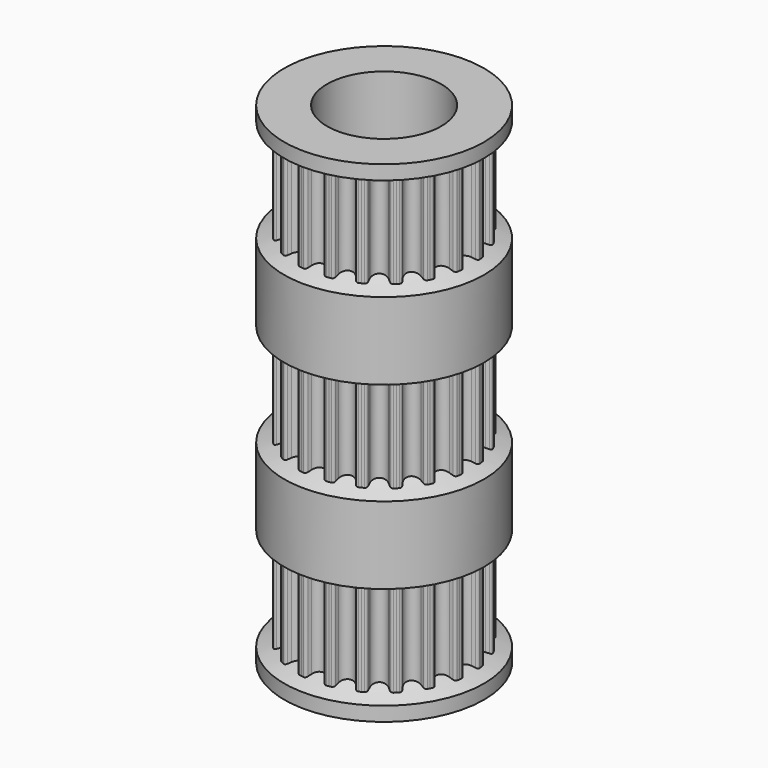
from build123d import *

# Parameters (mm, degrees)
F3_DEPTH = 17
F4_COUNT = 20
F7_R     = 4
F8_DEPTH = 50


with BuildPart() as f3:
    # F2 (on Top) → F3 (new body, symmetric)
    with BuildSketch(Plane.XY):
        with BuildLine():
            Line((0.8388325323, 5.2961801716), (0.9561583811, 6.0369464271))
            ThreePointArc((0.9561583811, 6.0369464271), (0.8769247137, 6.0489638832), (0.7975402939, 6.0599414595))
            ThreePointArc((0.7975402939, 6.0599414595), (0.673583382, 6.0329713178), (0.5951684067, 5.9332527328))
            ThreePointArc((0.5951684067, 5.9332527328), (0.5578349377, 5.8252126761), (0.5180414063, 5.7180543045))
            ThreePointArc((0.5180414063, 5.7180543045), (0.3142454474, 5.4597320978), (0, 5.3621977237))
            ThreePointArc((0, 5.3621977237), (-0.3142454474, 5.4597320978), (-0.5180414063, 5.7180543045))
            ThreePointArc((-0.5180414063, 5.7180543045), (-0.5578349377, 5.8252126761), (-0.5951684067, 5.9332527328))
            ThreePointArc((-0.5951684067, 5.9332527328), (-0.673583382, 6.0329713178), (-0.7975402939, 6.0599414595))
            ThreePointArc((-0.7975402939, 6.0599414595), (-0.8769247137, 6.0489638832), (-0.9561583811, 6.0369464271))
            Line((-0.9561583811, 6.0369464271), (-0.8388325323, 5.2961801716))
            Line((-0.8388325323, 5.2961801716), (0, 0))
            Line((0, 0), (0.8388325323, 5.2961801716))
        make_face()
        with BuildLine():
            Line((0.8388325323, 5.2961801716), (0.9561583811, 6.0369464271))
            ThreePointArc((0.9561583811, 6.0369464271), (0.8769247137, 6.0489638832), (0.7975402939, 6.0599414595))
            ThreePointArc((0.7975402939, 6.0599414595), (0.673583382, 6.0329713178), (0.5951684067, 5.9332527328))
            ThreePointArc((0.5951684067, 5.9332527328), (0.5578349377, 5.8252126761), (0.5180414063, 5.7180543045))
            ThreePointArc((0.5180414063, 5.7180543045), (0.3142454474, 5.4597320978), (0, 5.3621977237))
            ThreePointArc((0, 5.3621977237), (-0.3142454474, 5.4597320978), (-0.5180414063, 5.7180543045))
            ThreePointArc((-0.5180414063, 5.7180543045), (-0.5578349377, 5.8252126761), (-0.5951684067, 5.9332527328))
            ThreePointArc((-0.5951684067, 5.9332527328), (-0.673583382, 6.0329713178), (-0.7975402939, 6.0599414595))
            ThreePointArc((-0.7975402939, 6.0599414595), (-0.8769247137, 6.0489638832), (-0.9561583811, 6.0369464271))
            Line((-0.9561583811, 6.0369464271), (-0.8388325323, 5.2961801716))
            Line((-0.8388325323, 5.2961801716), (0, 0))
            Line((0, 0), (0.8388325323, 5.2961801716))
        make_face()
        with BuildLine():
            Line((0.8388325323, 5.2961801716), (0.9561583811, 6.0369464271))
            ThreePointArc((0.9561583811, 6.0369464271), (0.8769247137, 6.0489638832), (0.7975402939, 6.0599414595))
            ThreePointArc((0.7975402939, 6.0599414595), (0.673583382, 6.0329713178), (0.5951684067, 5.9332527328))
            ThreePointArc((0.5951684067, 5.9332527328), (0.5578349377, 5.8252126761), (0.5180414063, 5.7180543045))
            ThreePointArc((0.5180414063, 5.7180543045), (0.3142454474, 5.4597320978), (0, 5.3621977237))
            ThreePointArc((0, 5.3621977237), (-0.3142454474, 5.4597320978), (-0.5180414063, 5.7180543045))
            ThreePointArc((-0.5180414063, 5.7180543045), (-0.5578349377, 5.8252126761), (-0.5951684067, 5.9332527328))
            ThreePointArc((-0.5951684067, 5.9332527328), (-0.673583382, 6.0329713178), (-0.7975402939, 6.0599414595))
            ThreePointArc((-0.7975402939, 6.0599414595), (-0.8769247137, 6.0489638832), (-0.9561583811, 6.0369464271))
            Line((-0.9561583811, 6.0369464271), (-0.8388325323, 5.2961801716))
            Line((-0.8388325323, 5.2961801716), (0, 0))
            Line((0, 0), (0.8388325323, 5.2961801716))
        make_face()
    extrude(amount=F3_DEPTH, both=True)

    # F4: F3 ×20 about axis
    f4_axis = Axis((0, 0, 0), (0, 0, -1))


with BuildPart() as f3_1:
    add(f3.part)
    for i in range(1, F4_COUNT):
        add(f3.part.rotate(f4_axis, i * 360 / F4_COUNT))

    # F5 (on Front) → F6 (revolve)
    with BuildSketch(Plane.XZ):
        Polygon((7.002817496, 17), (0, 17), (0, 15.4028632371), (5.3621977237, 15.4028632371), (7.002817496, 16), align=None)
        Polygon((5.3621977237, 9.4028632371), (0, 9.4028632371), (0, 2.8028632371), (5.3621977237, 2.8028632371), (7.002817496, 3.4), (7.002817496, 8.8057264742), align=None)
        Polygon((5.3621977237, -15.7971367629), (0, -15.7971367629), (0, -17.3942735258), (7.002817496, -17.3942735258), (7.002817496, -16.3942735258), align=None)
        Polygon((5.3621977237, -3.1971367629), (0, -3.1971367629), (0, -9.7971367629), (5.3621977237, -9.7971367629), (7.002817496, -9.2), (7.002817496, -3.7942735258), align=None)
    revolve(axis=Axis((0, 0, 6.1028632371), (0, 0, 1)))

    # F7 (on Top) → F8 (cut, symmetric)
    with BuildSketch(Plane.XY):
        Circle(F7_R)
    extrude(amount=F8_DEPTH, both=True, mode=Mode.SUBTRACT)


solid = f3_1.part
